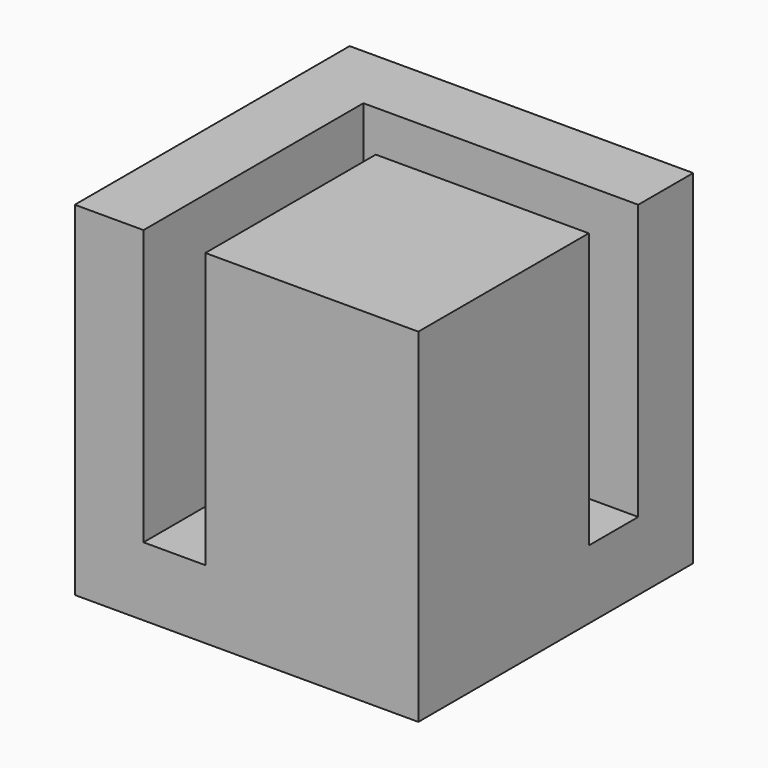
from build123d import *

# Parameters (mm, degrees)
F0_W     = 25
F0_H     = 25
F1_DEPTH = 25
F2_W     = 4.5
F2_H     = 4.5
F2_W_2   = 15.5
F2_H_2   = 15.5
F3_DEPTH = 20


with BuildPart() as f1:
    # F0 (on Top) → F1 (new body)
    with BuildSketch(Plane.XY):
        Rectangle(F0_W, F0_H)
    extrude(amount=F1_DEPTH)

    # F2 (on face) → F3 (cut)
    with BuildSketch(Plane.XY.offset(25)):
        with Locations((-5.25, 5.25)):
            Rectangle(F2_W, F2_H)
        with Locations((4.75, 5.25)):
            Rectangle(F2_W_2, F2_H)
        with Locations((-5.25, -4.75)):
            Rectangle(F2_W, F2_H_2)
    extrude(amount=-F3_DEPTH, mode=Mode.SUBTRACT)


solid = f1.part
